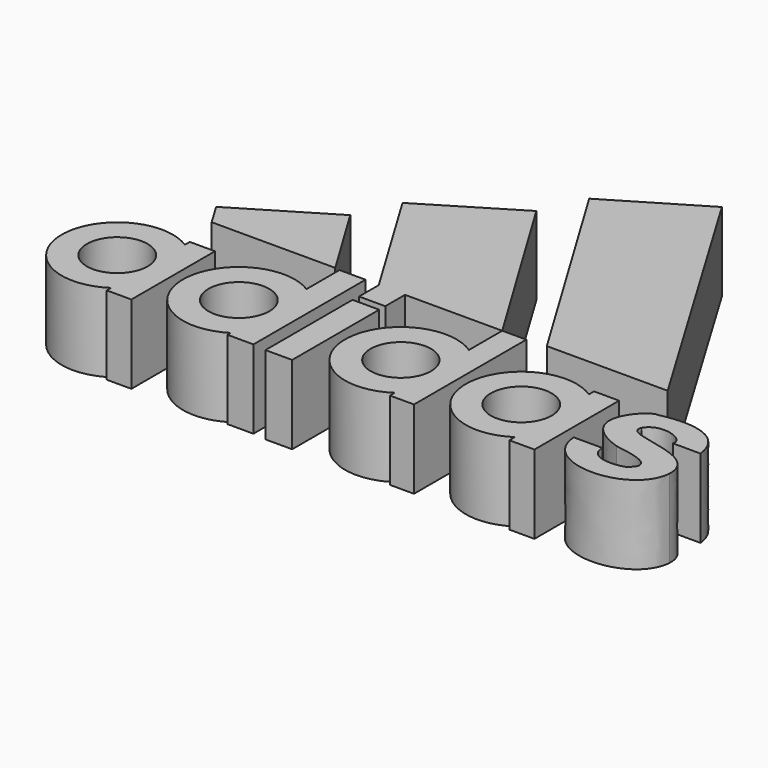
from build123d import *

# Parameters (mm, degrees)
F0_R     = 9.8168583777
F1_DEPTH = 25.4
F0_W     = 8.6227245629
F0_H     = 35.1296216249
F0_W_2   = 8.4749514465
F0_H_2   = 7.9514212463
F0_R_2   = 9.7595146702
F0_R_3   = 9.8100166277


with BuildPart() as f1:
    # F0 (on Top) → F1 (new body)
    with BuildSketch(Plane.XY):
        with BuildLine():
            ThreePointArc((-64.4362494349, -57.3380434245), (-66.8940964115, -49.5050308039), (-72.5822299719, -43.5853825816))
            ThreePointArc((-72.5822299719, -43.5853825816), (-100.2904067139, -58.7606290674), (-72.4031999707, -73.6043100237))
            ThreePointArc((-72.4031999707, -73.6043100237), (-66.8398110404, -67.709835531), (-64.4362494349, -59.9690979987))
            Line((-64.4362494349, -59.9690979987), (-64.4362494349, -57.3380434245))
        make_face()
        with Locations((-82.3393538594, -58.6535707116)):
            Circle(F0_R, mode=Mode.SUBTRACT)
        with BuildLine():
            Line((-72.5822299719, -41.5889546275), (-72.5822299719, -43.5853825816))
            ThreePointArc((-72.5822299719, -43.5853825816), (-66.8940964115, -49.5050308039), (-64.4362494349, -57.3380434245))
            Line((-64.4362494349, -57.3380434245), (-64.4362494349, -41.5889546275))
            Line((-64.4362494349, -41.5889546275), (-72.5822299719, -41.5889546275))
        make_face()
        with BuildLine():
            ThreePointArc((-64.4362494349, -59.9690979987), (-66.8398110404, -67.709835531), (-72.4031999707, -73.6043100237))
            Line((-72.4031999707, -73.6043100237), (-72.4031999707, -75.3365829587))
            Line((-72.4031999707, -75.3365829587), (-64.4362494349, -75.3365829587))
            Line((-64.4362494349, -75.3365829587), (-64.4362494349, -59.9690979987))
        make_face()
    extrude(amount=F1_DEPTH)


with BuildPart() as f1b:
    # F0 (on Top) → F1, piece 2 (new body)
    with BuildSketch(Plane.XY):
        with BuildLine():
            ThreePointArc((-33.5065610707, -60.7797522098), (-52.9018863457, -58.6506798863), (-33.5065610707, -56.5216075629))
            Line((-33.5065610707, -56.5216075629), (-33.5065610707, -43.33988514))
            ThreePointArc((-33.5065610707, -43.33988514), (-61.1487145763, -58.6506798863), (-33.5065610707, -73.9614746327))
            Line((-33.5065610707, -73.9614746327), (-33.5065610707, -60.7797522098))
        make_face()
        with BuildLine():
            ThreePointArc((-33.5065610707, -56.5216075629), (-33.3314509237, -57.5797491056), (-33.2728475911, -58.6506798863))
            ThreePointArc((-33.2728475911, -58.6506798863), (-33.3314509237, -59.7216106671), (-33.5065610707, -60.7797522098))
            Line((-33.5065610707, -60.7797522098), (-33.5065610707, -73.9614746327))
            ThreePointArc((-33.5065610707, -73.9614746327), (-27.6904736277, -68.0924992486), (-25.0967442989, -60.2474808693))
            Line((-25.0967442989, -60.2474808693), (-25.0967442989, -57.0538789034))
            ThreePointArc((-25.0967442989, -57.0538789034), (-27.6904736277, -49.2088605241), (-33.5065610707, -43.33988514))
            Line((-33.5065610707, -43.33988514), (-33.5065610707, -56.5216075629))
        make_face()
        with BuildLine():
            Line((-33.5065610707, -30.0147216767), (-33.5065610707, -43.33988514))
            ThreePointArc((-33.5065610707, -43.33988514), (-27.6904736277, -49.2088605241), (-25.0967442989, -57.0538789034))
            Line((-25.0967442989, -57.0538789034), (-25.0967442989, -30.0147216767))
            Line((-25.0967442989, -30.0147216767), (-33.5065610707, -30.0147216767))
        make_face()
        with BuildLine():
            ThreePointArc((-25.0967442989, -60.2474808693), (-27.6904736277, -68.0924992486), (-33.5065610707, -73.9614746327))
            Line((-33.5065610707, -73.9614746327), (-33.5065610707, -75.2574056387))
            Line((-33.5065610707, -75.2574056387), (-25.0967442989, -75.2574056387))
            Line((-25.0967442989, -75.2574056387), (-25.0967442989, -60.2474808693))
        make_face()
    extrude(amount=F1_DEPTH)


with BuildPart() as f1c:
    # F0 (on Top) → F1, piece 3 (new body)
    with BuildSketch(Plane.XY):
        with Locations((-16.4800006896, -58.2212135196)):
            Rectangle(F0_W, F0_H)
    extrude(amount=F1_DEPTH)


with BuildPart() as f1d:
    # F0 (on Top) → F1, piece 4 (new body)
    with BuildSketch(Plane.XY):
        with Locations((-16.4061141315, -34.232267387)):
            Rectangle(F0_W_2, F0_H_2)
        Polygon((-14.9002628893, 26.1708135426), (-44.0099721158, 8.5610841344), (-20.6435898547, -30.2565567639), (-12.1686384082, -30.2565567639), (19.2351080477, -30.2565567639), align=None)
    extrude(amount=F1_DEPTH)


with BuildPart() as f1e:
    # F0 (on Top) → F1, piece 5 (new body)
    with BuildSketch(Plane.XY):
        with BuildLine():
            Line((19.2351080477, -73.6428715184), (19.2351080477, -43.7139131233))
            ThreePointArc((19.2351080477, -43.7139131233), (-8.7733980627, -58.6783923209), (19.2351080477, -73.6428715184))
        make_face()
        with Locations((9.2284912243, -58.6783923209)):
            Circle(F0_R_2, mode=Mode.SUBTRACT)
        with BuildLine():
            ThreePointArc((27.0062051713, -55.8462721394), (24.3873431899, -48.9687463443), (19.2351080477, -43.7139131233))
            Line((19.2351080477, -43.7139131233), (19.2351080477, -73.6428715184))
            ThreePointArc((19.2351080477, -73.6428715184), (24.3873431899, -68.3880382974), (27.0062051713, -61.5105125023))
            Line((27.0062051713, -61.5105125023), (27.0062051713, -55.8462721394))
        make_face()
        with BuildLine():
            Line((27.0062051713, -30.2565567639), (19.2351080477, -30.2565567639))
            Line((19.2351080477, -30.2565567639), (19.2351080477, -43.7139131233))
            ThreePointArc((19.2351080477, -43.7139131233), (24.3873431899, -48.9687463443), (27.0062051713, -55.8462721394))
            Line((27.0062051713, -55.8462721394), (27.0062051713, -30.2565567639))
        make_face()
        with BuildLine():
            ThreePointArc((27.0062051713, -61.5105125023), (24.3873431899, -68.3880382974), (19.2351080477, -73.6428715184))
            Line((19.2351080477, -73.6428715184), (19.2351080477, -75.5731165409))
            Line((19.2351080477, -75.5731165409), (27.0062051713, -75.5731165409))
            Line((27.0062051713, -75.5731165409), (27.0062051713, -61.5105125023))
        make_face()
    extrude(amount=F1_DEPTH)


with BuildPart() as f1f:
    # F0 (on Top) → F1, piece 6 (new body)
    with BuildSketch(Plane.XY):
        with BuildLine():
            Line((58.0009706318, -73.6112598492), (58.0009706318, -43.7455247925))
            ThreePointArc((58.0009706318, -43.7455247925), (30.2094695434, -58.6783923209), (58.0009706318, -73.6112598492))
        make_face()
        with Locations((48.1170676649, -58.6783923209)):
            Circle(F0_R_3, mode=Mode.SUBTRACT)
        with BuildLine():
            ThreePointArc((58.0009706318, -73.6112598492), (63.891715564, -67.1543910312), (66.0246657863, -58.6783923209))
            ThreePointArc((66.0246657863, -58.6783923209), (63.891715564, -50.2023936105), (58.0009706318, -43.7455247925))
            Line((58.0009706318, -43.7455247925), (58.0009706318, -73.6112598492))
        make_face()
        with BuildLine():
            ThreePointArc((58.0009706318, -43.7455247925), (63.891715564, -50.2023936105), (66.0246657863, -58.6783923209))
            ThreePointArc((66.0246657863, -58.6783923209), (63.891715564, -67.1543910312), (58.0009706318, -73.6112598492))
            Line((58.0009706318, -73.6112598492), (58.0009706318, -75.8280828595))
            Line((58.0009706318, -75.8280828595), (66.0914257169, -75.8280828595))
            Line((66.0914257169, -75.8280828595), (66.0914257169, -41.65655002))
            Line((66.0914257169, -41.65655002), (58.0009706318, -41.65655002))
            Line((58.0009706318, -41.65655002), (58.0009706318, -43.7455247925))
        make_face()
    extrude(amount=F1_DEPTH)


with BuildPart() as f1g:
    # F0 (on Top) → F1, piece 7 (new body)
    with BuildSketch(Plane.XY):
        with BuildLine():
            Line((78.9085254073, -64.4467994571), (69.6576759219, -64.4508749247))
            add(Edge.make_bspline(
                [(69.6576759219, -64.4508749247), (70.7202628255, -80.6176885962), (99.462673068, -80.0826251507), (100.8963435888, -64.9048909545)],
                knots=[0, 0, 0, 0, 31.241966778, 31.241966778, 31.241966778, 31.241966778], degree=3))
            add(Edge.make_bspline(
                [(100.8963435888, -64.9048909545), (101.4852896333, -51.8313832581), (77.2842392325, -55.8495000005), (79.7297279685, -49.7361972484)],
                knots=[0, 0, 0, 0, 26.040639116, 26.040639116, 26.040639116, 26.040639116], degree=3))
            add(Edge.make_bspline(
                [(79.7297279685, -49.7361972484), (82.9119309783, -44.3855635822), (92.5262793899, -48.0547174811), (91.2488400936, -51.3720996678)],
                knots=[0, 0, 0, 0, 11.634694705, 11.634694705, 11.634694705, 11.634694705], degree=3))
            Line((91.2488400936, -51.3720996678), (100.1684612964, -51.4017923224))
            add(Edge.make_bspline(
                [(100.1684612964, -51.4017923224), (98.2065796852, -36.4769659936), (77.8510241745, -41.8477672392), (78.575745225, -41.65655002), (78.4465968609, -41.65655002)],
                knots=[0, 0, 0, 0, 0.9312417891, 1, 1, 1, 1], degree=3))
            add(Edge.make_bspline(
                [(78.4465968609, -41.65655002), (75.9927406907, -40.8680737019), (61.3987632096, -54.8162981868), (81.1362018826, -61.4309588563)],
                knots=[0, 0, 0, 0, 19.956483157, 19.956483157, 19.956483157, 19.956483157], degree=3))
            add(Edge.make_bspline(
                [(81.1362018826, -61.4309588563), (90.6611979008, -62.6386923625), (95.1168835163, -65.092548728), (89.9830050553, -68.8343461351)],
                knots=[0, 0, 0, 0, 11.5358601577, 11.5358601577, 11.5358601577, 11.5358601577], degree=3))
            add(Edge.make_bspline(
                [(89.9830050553, -68.8343461351), (86.7866948247, -70.0002610683), (78.9731070399, -70.5168619752), (78.9085254073, -64.4467994571)],
                knots=[0, 0, 0, 0, 11.9119547231, 11.9119547231, 11.9119547231, 11.9119547231], degree=3))
        make_face()
    extrude(amount=F1_DEPTH)


with BuildPart() as f1h:
    # F0 (on Top) → F1, piece 8 (new body)
    with BuildSketch(Plane.XY):
        Polygon((20.2781427652, 57.1066960692), (-8.7053831667, 39.7621840239), (33.2418940961, -29.7743845731), (72.2700899582, -29.7743845731), align=None)
    extrude(amount=F1_DEPTH)


with BuildPart() as f1i:
    # F0 (on Top) → F1, piece 9 (new body)
    with BuildSketch(Plane.XY):
        Polygon((-50.1212775707, -4.8962952569), (-79.3546124484, -22.4902936408), (-74.9839549715, -29.7523662448), (-74.2651075125, -29.7523662448), (-73.7612769008, -29.7523662448), (-35.0841917098, -29.7523662448), align=None)
    extrude(amount=F1_DEPTH)


solid = Compound([f1.part, f1b.part, f1c.part, f1d.part, f1e.part, f1f.part, f1g.part, f1h.part, f1i.part])
